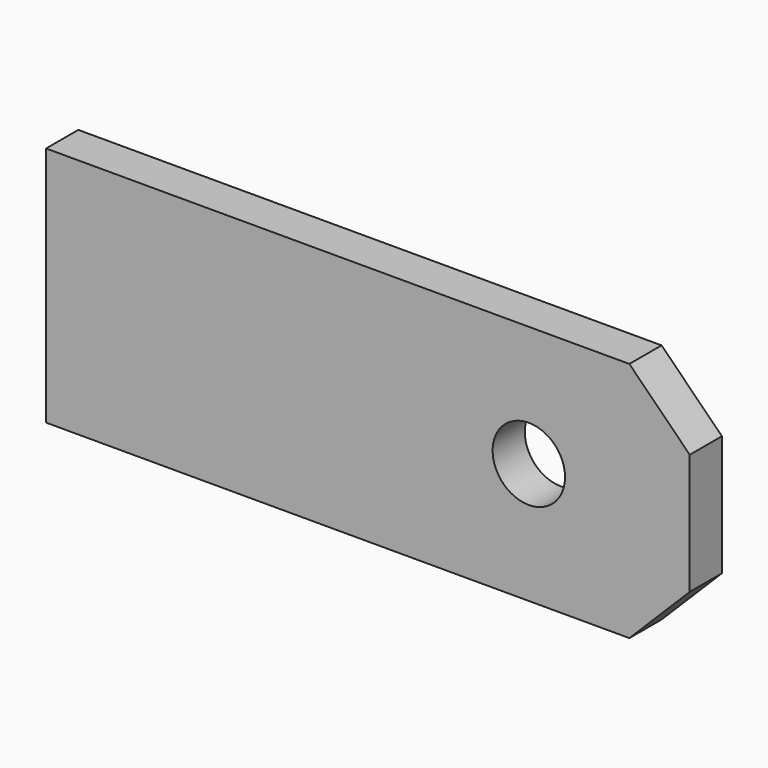
from build123d import *

# Parameters (mm, degrees)
F0_W     = 160
F0_H     = 60
F0_R     = 9
F1_DEPTH = 5
F2_SIZE  = 15


with BuildPart() as f1:
    # F0 (on Front) → F1 (new body, symmetric)
    with BuildSketch(Plane.XZ):
        Rectangle(F0_W, F0_H)
        with Locations((40, 0)):
            Circle(F0_R, mode=Mode.SUBTRACT)
    extrude(amount=F1_DEPTH, both=True)

    # F2
    f2_edges = [f1.edges().sort_by_distance(p)[0] for p in [
        (80, 0, 30),
        (80, 0, -30),
    ]]
    chamfer(f2_edges, length=F2_SIZE)


solid = f1.part
